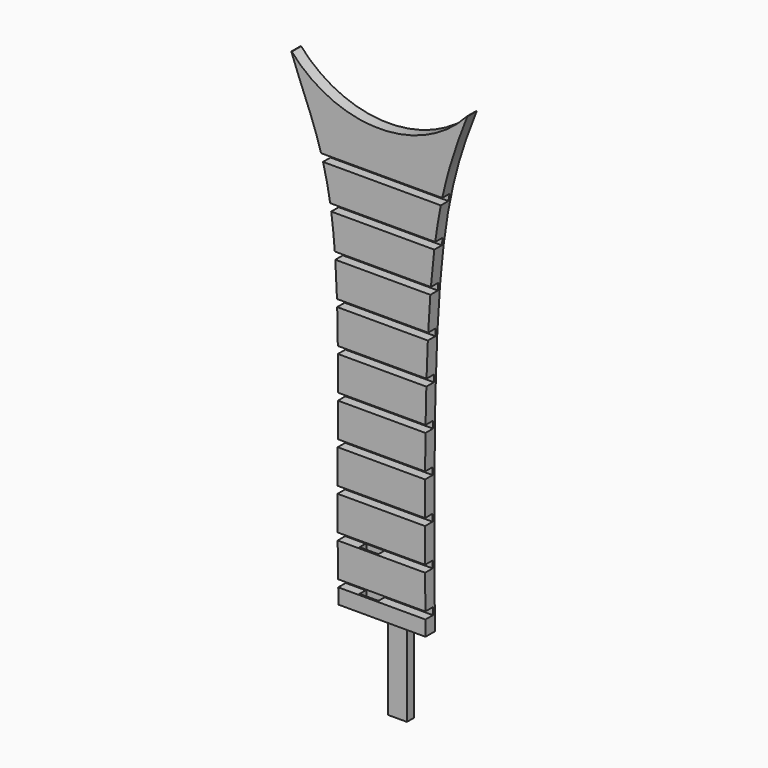
from build123d import *

# Parameters (mm, degrees)
F1_DEPTH = 2.54
F2_R     = 25.4
F3_DEPTH = 25.4
F4_W     = 41.0972163081
F4_H     = 1.524
F5_DEPTH = 2.032
F6_W     = 4.0921838954
F6_H     = 1.8910848594
F7_DEPTH = 17.78
F8_W     = 4.0894
F8_H     = 1.8796
F9_DEPTH = 12.183920388


with BuildPart() as f1:
    # F0 (on Front) → F1 (new body)
    with BuildSketch(Plane.XZ):
        with BuildLine():
            add(Edge.make_bspline(
                [(-38.1, 45.5098064329), (-31.48906723, 40.6018618943), (-18.4296945804, 30.9066072453), (-6.0920606717, 40.6826197932), (0, 45.5098064329)],
                knots=[0, 0, 0, 0, 0.506221313, 1, 1, 1, 1], degree=3))
            add(Edge.make_bspline(
                [(-38.1, 45.5098064329), (-35.7981584888, 38.8964609268), (-25.5149174178, 20.0096712829), (-28.6912827149, -24.7501280377), (-27.8687996008, -56.598869547)],
                knots=[0, 0, 0, 0, 0.3600810606, 1, 1, 1, 1], degree=3))
            Line((-27.8687996008, -56.598869547), (-9.0453229023, -56.598869547))
            add(Edge.make_bspline(
                [(0, 45.5098064329), (-2.5833212801, 38.9747758696), (-9.3977049962, 19.6461118957), (-9.3031082968, -24.5379434481), (-9.0453229023, -56.598869547)],
                knots=[0, 0, 0, 0, 0.3581705323, 1, 1, 1, 1], degree=3))
        make_face()
        with BuildLine():
            Line((0, 45.5098064329), (-38.1, 45.5098064329))
            add(Edge.make_bspline(
                [(-38.1, 45.5098064329), (-31.48906723, 40.6018618943), (-18.4296945804, 30.9066072453), (-6.0920606717, 40.6826197932), (0, 45.5098064329)],
                knots=[0, 0, 0, 0, 0.506221313, 1, 1, 1, 1], degree=3))
        make_face()
    extrude(amount=F1_DEPTH)

    # F2 (on Front) → F3 (cut)
    with BuildSketch(Plane.XZ):
        with Locations((-19.05, 62.4058693647)):
            Circle(F2_R)
    extrude(amount=F3_DEPTH, mode=Mode.SUBTRACT)

    # F4 (on face) → F5 (cut)
    with BuildSketch(Plane.XZ.offset(2.54)):
        with Locations((-18.3987691998, 27.467050841)):
            Rectangle(F4_W, F4_H)
        with Locations((-18.3987691998, 18.577050841)):
            Rectangle(F4_W, F4_H)
        with Locations((-18.3987691998, 9.687050841)):
            Rectangle(F4_W, F4_H)
        with Locations((-18.3987691998, 0.797050841)):
            Rectangle(F4_W, F4_H)
        with Locations((-18.3987691998, -8.092949159)):
            Rectangle(F4_W, F4_H)
        with Locations((-18.3987691998, -16.982949159)):
            Rectangle(F4_W, F4_H)
        with Locations((-18.3987691998, -25.872949159)):
            Rectangle(F4_W, F4_H)
        with Locations((-18.3987691998, -34.762949159)):
            Rectangle(F4_W, F4_H)
        with Locations((-18.3987691998, -43.652949159)):
            Rectangle(F4_W, F4_H)
        with Locations((-18.3987691998, -52.542949159)):
            Rectangle(F4_W, F4_H)
    extrude(amount=-F5_DEPTH, mode=Mode.SUBTRACT)

    # F8 (on face) → F9 (cut, through all)
    with BuildSketch(Plane(origin=(0, 0, -56.598869547), x_dir=(1, 0, 0), z_dir=(0, 0, -1))):
        with Locations((-21.5815627026, 1.2192)):
            Rectangle(F8_W, F8_H)
    extrude(amount=-F9_DEPTH, mode=Mode.SUBTRACT)


with BuildPart() as f7:
    # F6 (on face) → F7 (new body)
    with BuildSketch(Plane(origin=(0, 0, -56.598869547), x_dir=(1, 0, 0), z_dir=(0, 0, -1))):
        with Locations((-15.4168880545, 1.2134575703)):
            Rectangle(F6_W, F6_H)
    extrude(amount=F7_DEPTH)


solid = Compound([f1.part, f7.part])
